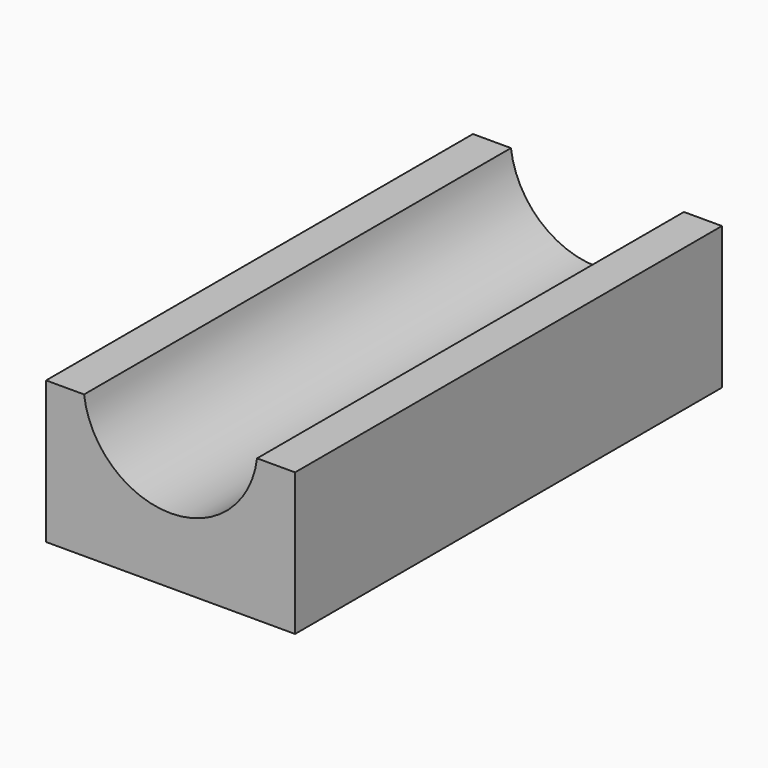
from build123d import *

# Parameters (mm, degrees)
F0_W     = 7
F0_H     = 15
F1_DEPTH = 4
F3_DEPTH = 15.001


with BuildPart() as f1:
    # F0 (on Top) → F1 (new body)
    with BuildSketch(Plane.XY):
        with Locations((-3.5, 7.5)):
            Rectangle(F0_W, F0_H)
        with Locations((-3.5, 7.5)):
            Rectangle(F0_W, F0_H)
    extrude(amount=F1_DEPTH)

    # F2 (on face) → F3 (cut, through all)
    with BuildSketch(Plane.XZ):
        with BuildLine():
            Line((-1.068437, 4), (-5.931563, 4))
            ThreePointArc((-5.931563, 4), (-3.5, 1.85), (-1.068437, 4))
        make_face()
        with BuildLine():
            ThreePointArc((-1.068437, 4), (-1.054614, 4.149717), (-1.05, 4.3))
            ThreePointArc((-1.05, 4.3), (-3.650283, 6.745386), (-5.931563, 4))
            Line((-5.931563, 4), (-1.068437, 4))
        make_face()
    extrude(amount=-F3_DEPTH, mode=Mode.SUBTRACT)


solid = f1.part
